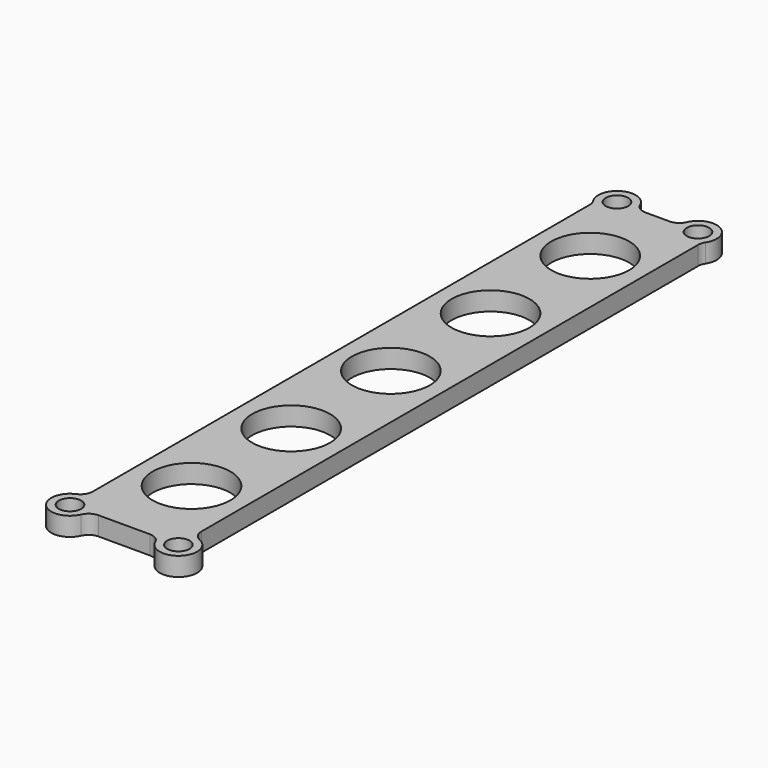
from build123d import *

# Parameters (mm, degrees)
F0_R     = 2.286
F0_R_2   = 7.9375
F1_DEPTH = 3.81


with BuildPart() as f1:
    # F0 (on Top) → F1 (new body)
    with BuildSketch(Plane.XY):
        with BuildLine():
            Line((2.435129, 67.945), (-2.435129, 67.945))
            ThreePointArc((-2.435129, 67.945), (-3.826344, 68.359884), (-4.763077, 69.469))
            ThreePointArc((-4.763077, 69.469), (-10.056534, 71.302168), (-11.4554, 65.877746))
            ThreePointArc((-11.4554, 65.877746), (-11.152718, 65.217997), (-11.049, 64.499576))
            Line((-11.049, 64.499576), (-11.049, -62.125129))
            ThreePointArc((-11.049, -62.125129), (-11.463884, -63.516344), (-12.573, -64.453077))
            ThreePointArc((-12.573, -64.453077), (-13.743077, -70.639077), (-7.557077, -69.469))
            ThreePointArc((-7.557077, -69.469), (-6.620344, -68.359884), (-5.229129, -67.945))
            Line((-5.229129, -67.945), (5.229129, -67.945))
            ThreePointArc((5.229129, -67.945), (6.620344, -68.359884), (7.557077, -69.469))
            ThreePointArc((7.557077, -69.469), (13.743077, -70.639077), (12.573, -64.453077))
            ThreePointArc((12.573, -64.453077), (11.463884, -63.516344), (11.049, -62.125129))
            Line((11.049, -62.125129), (11.049, 64.499576))
            ThreePointArc((11.049, 64.499576), (11.152718, 65.217997), (11.4554, 65.877746))
            ThreePointArc((11.4554, 65.877746), (10.056534, 71.302168), (4.763077, 69.469))
            ThreePointArc((4.763077, 69.469), (3.826344, 68.359884), (2.435129, 67.945))
        make_face()
        with Locations((-11.049, -67.945)):
            Circle(F0_R, mode=Mode.SUBTRACT)
        with Locations((0, -50.8)):
            Circle(F0_R_2, mode=Mode.SUBTRACT)
        with Locations((0, -25.4)):
            Circle(F0_R_2, mode=Mode.SUBTRACT)
        with Locations((11.049, -67.945)):
            Circle(F0_R, mode=Mode.SUBTRACT)
        Circle(F0_R_2, mode=Mode.SUBTRACT)
        with Locations((0, 25.4)):
            Circle(F0_R_2, mode=Mode.SUBTRACT)
        with Locations((-8.255, 67.945)):
            Circle(F0_R, mode=Mode.SUBTRACT)
        with Locations((0, 50.8)):
            Circle(F0_R_2, mode=Mode.SUBTRACT)
        with Locations((8.255, 67.945)):
            Circle(F0_R, mode=Mode.SUBTRACT)
    extrude(amount=F1_DEPTH)


solid = f1.part
